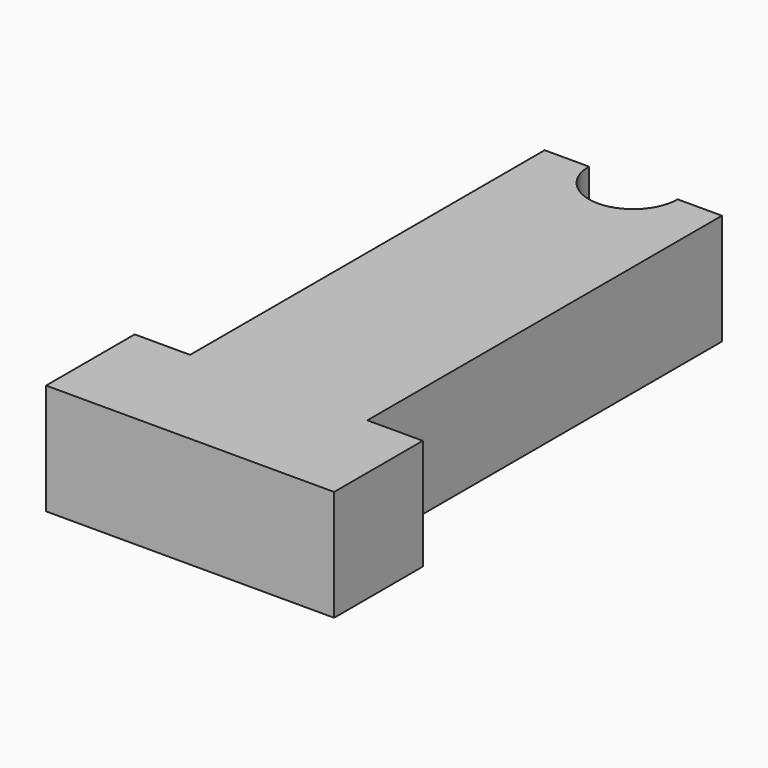
from build123d import *

# Parameters (mm, degrees)
F1_DEPTH = 10


with BuildPart() as f1:
    # F0 (on Top) → F1 (new body)
    with BuildSketch(Plane.XY):
        with BuildLine():
            Line((8, -20), (8, 20))
            Line((8, 20), (4, 20))
            ThreePointArc((4, 20), (0, 16), (-4, 20))
            Line((-4, 20), (-8, 20))
            Line((-8, 20), (-8, -20))
            Line((-8, -20), (-13, -20))
            Line((-13, -20), (-13, -30))
            Line((-13, -30), (13, -30))
            Line((13, -30), (13, -20))
            Line((13, -20), (8, -20))
        make_face()
    extrude(amount=F1_DEPTH)


solid = f1.part
